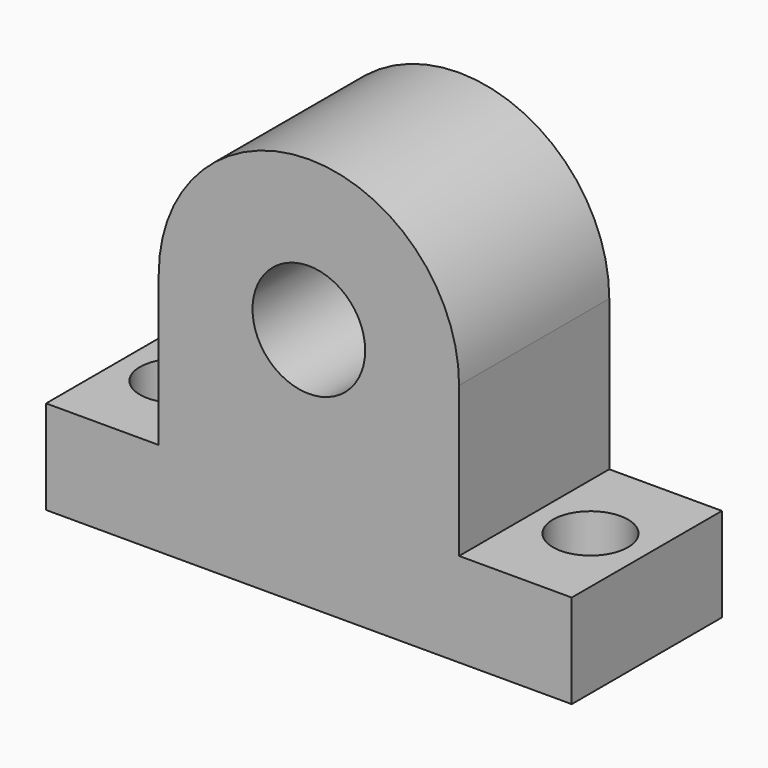
from build123d import *

# Parameters (mm, degrees)
F1_DEPTH = 50
F2_R     = 15
F3_DEPTH = 51
F4_R     = 10
F5_DEPTH = 51


with BuildPart() as f1:
    # F0 (on Front) → F1 (new body)
    with BuildSketch(Plane.XZ):
        with BuildLine():
            Line((-57.174233, 36.999495), (-87.174233, 36.999495))
            Line((-87.174233, 36.999495), (-87.174233, 11.999495))
            Line((-87.174233, 11.999495), (52.825767, 11.999495))
            Line((52.825767, 11.999495), (52.825767, 36.999495))
            Line((52.825767, 36.999495), (22.825767, 36.999495))
            Line((22.825767, 36.999495), (22.825767, 76.999495))
            ThreePointArc((22.825767, 76.999495), (-17.174233, 116.999495), (-57.174233, 76.999495))
            Line((-57.174233, 76.999495), (-57.174233, 36.999495))
        make_face()
    extrude(amount=F1_DEPTH)

    # F2 (on face) → F3 (cut)
    with BuildSketch(Plane.XZ.offset(50)):
        with Locations((-17.19176, 76.999495)):
            Circle(F2_R)
    extrude(amount=-F3_DEPTH, mode=Mode.SUBTRACT)

    # F4 (on face) → F5 (cut)
    with BuildSketch(Plane.XY.offset(36.999495)):
        with Locations((-72.174233, -25)):
            Circle(F4_R)
        with Locations((37.825767, -25)):
            Circle(F4_R)
    extrude(amount=-F5_DEPTH, mode=Mode.SUBTRACT)


solid = f1.part
